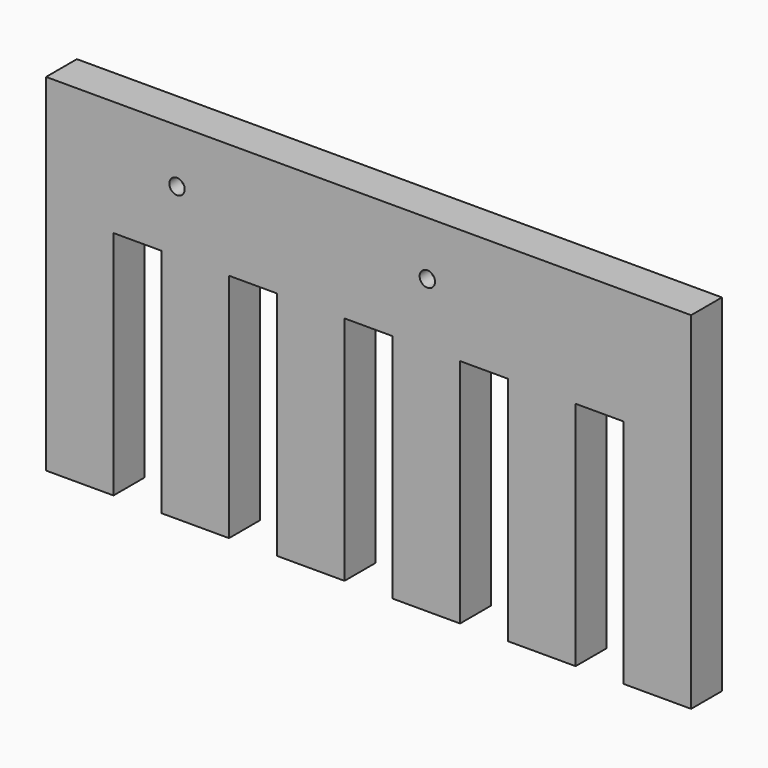
from build123d import *

# Parameters (mm, degrees)
F1_DEPTH       = 20
F2_D           = 8
F2_CBORE_D     = 12.5
F2_CBORE_DEPTH = 12.5
F3_D           = 8
F3_CBORE_D     = 12.5
F3_CBORE_DEPTH = 12.5


with BuildPart() as f1:
    # F0 (on Front) → F1 (new body)
    with BuildSketch(Plane.XZ):
        Polygon((197.0788455009, 58.5275515914), (-137.9211544991, 58.5275515914), (-137.9211544991, -121.4724484086), (-102.9211544991, -121.4724484086), (-102.9211544991, -1.4724484086), (-77.9211544991, -1.4724484086), (-77.9211544991, -121.4724484086), (-42.9211544991, -121.4724484086), (-42.9211544991, -1.4724484086), (-17.9211544991, -1.4724484086), (-17.9211544991, -121.4724484086), (17.0788455009, -121.4724484086), (17.0788455009, -1.4724484086), (42.0788455009, -1.4724484086), (42.0788455009, -121.4724484086), (77.0788455009, -121.4724484086), (77.0788455009, -1.4724484086), (102.0788455009, -1.4724484086), (102.0788455009, -121.4724484086), (137.0788455009, -121.4724484086), (137.0788455009, -1.4724484086), (162.0788455009, -1.4724484086), (162.0788455009, -121.4724484086), (197.0788455009, -121.4724484086), align=None)
    extrude(amount=F1_DEPTH)

    # F2 (through all)
    with Locations(Plane(origin=(0, 0, 0), x_dir=(1, 0, 0), z_dir=(0, 1, 0))):
        with Locations((-69.9211544991, -30.5275515914)):
            CounterBoreHole(F2_D / 2, F2_CBORE_D / 2, F2_CBORE_DEPTH)

    # F3 (through all)
    with Locations(Plane(origin=(0, 0, 0), x_dir=(1, 0, 0), z_dir=(0, 1, 0))):
        with Locations((60.0788455009, -30.5275515914)):
            CounterBoreHole(F3_D / 2, F3_CBORE_D / 2, F3_CBORE_DEPTH)


solid = f1.part
